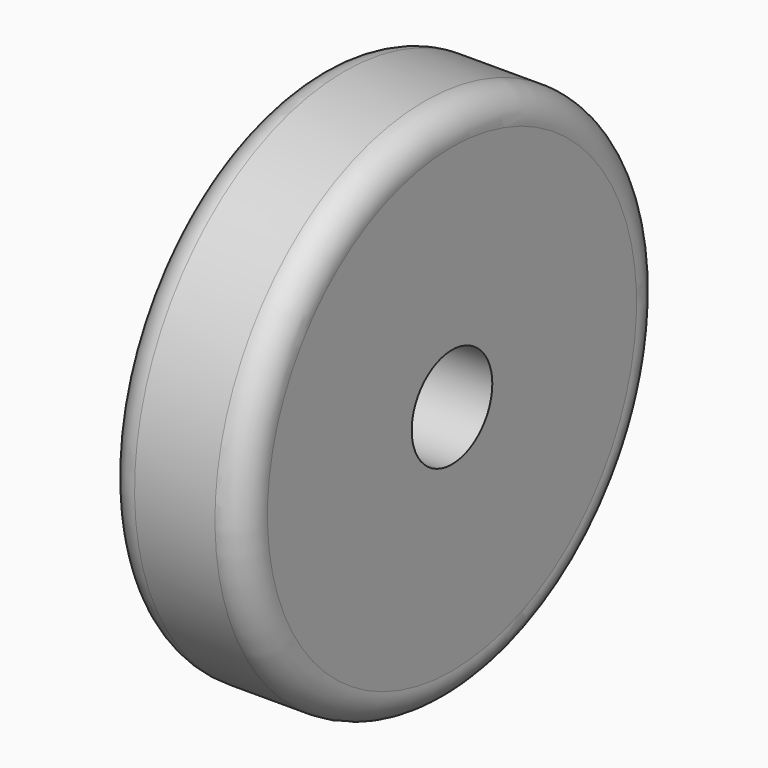
from build123d import *

# Parameters (mm, degrees)
F2_R     = 2.2
F2_R_2   = 0.071728
F3_DEPTH = 25


with BuildPart() as f1:
    # F0 (on Front) → F1 (revolve)
    with BuildSketch(Plane.XZ):
        with BuildLine():
            Line((-5.771363, 0), (0, 0))
            Line((0, 0), (0, 10))
            ThreePointArc((0, 10), (-0.279724, 10.961699), (-1.190416, 11.378532))
            Line((-1.190416, 11.378532), (-4.698996, 11.378532))
            ThreePointArc((-4.698996, 11.378532), (-5.646751, 10.969802), (-6, 10))
            ThreePointArc((-6, 10), (-5.920846, 9.248579), (-5.771363, 8.507935))
            ThreePointArc((-5.771363, 8.507935), (-5.627271, 8.128448), (-5.399361, 7.792546))
            ThreePointArc((-5.399361, 7.792546), (-5.200522, 7.601131), (-4.970128, 7.449159))
            ThreePointArc((-4.970128, 7.449159), (-4.742743, 7.234397), (-4.655357, 6.93408))
            ThreePointArc((-4.655357, 6.93408), (-4.731366, 6.674751), (-4.941512, 6.504846))
            ThreePointArc((-4.941512, 6.504846), (-5.171279, 6.384493), (-5.370745, 6.218691))
            ThreePointArc((-5.370745, 6.218691), (-5.553149, 5.967541), (-5.656901, 5.674995))
            ThreePointArc((-5.656901, 5.674995), (-5.743456, 5.091237), (-5.771363, 4.501758))
            ThreePointArc((-5.771363, 4.501758), (-5.768393, 2.250879), (-5.771363, 0))
        make_face()
    revolve(axis=Axis((-2.354635, 0, -0.071728), (-1, 0, 0)))

    # F2 (on face) → F3 (cut)
    with BuildSketch(Plane.YZ):
        Circle(F2_R)
        with Locations((0, -0.071728)):
            Circle(F2_R_2, mode=Mode.SUBTRACT)
    extrude(amount=-F3_DEPTH, mode=Mode.SUBTRACT)


solid = f1.part
